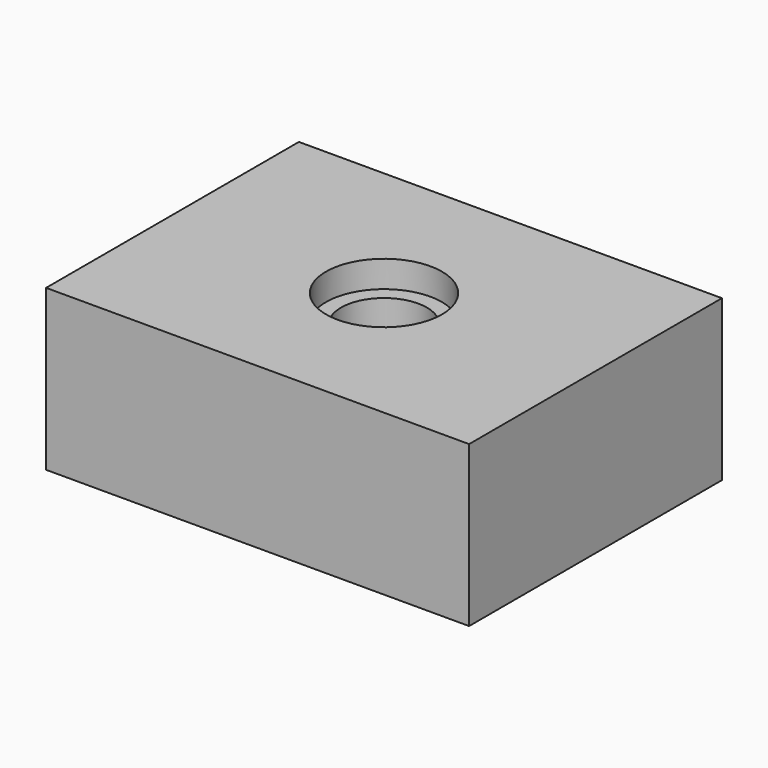
from build123d import *

# Parameters (mm, degrees)
F0_W     = 30.12
F0_H     = 22.5
F1_DEPTH = 11.407
F2_W     = 19.53
F2_H     = 11.91
F3_DEPTH = 4.71
F4_R     = 4.1275
F5_DEPTH = 1.905
F6_R     = 3.05689
F7_DEPTH = 6.0706


with BuildPart() as f1:
    # F0 (on Top) → F1 (new body)
    with BuildSketch(Plane.XY):
        Rectangle(F0_W, F0_H)
    extrude(amount=-F1_DEPTH)

    # F2 (on face) → F3 (cut)
    with BuildSketch(Plane(origin=(0, 0, -11.407), x_dir=(1, 0, 0), z_dir=(0, 0, -1))):
        Rectangle(F2_W, F2_H)
    extrude(amount=-F3_DEPTH, mode=Mode.SUBTRACT)

    # F4 (on face) → F5 (cut)
    with BuildSketch(Plane.XY):
        Circle(F4_R)
    extrude(amount=-F5_DEPTH, mode=Mode.SUBTRACT)

    # F6 (on face) → F7 (cut)
    with BuildSketch(Plane.XY.offset(-1.905)):
        Circle(F6_R)
    extrude(amount=-F7_DEPTH, mode=Mode.SUBTRACT)


solid = f1.part
